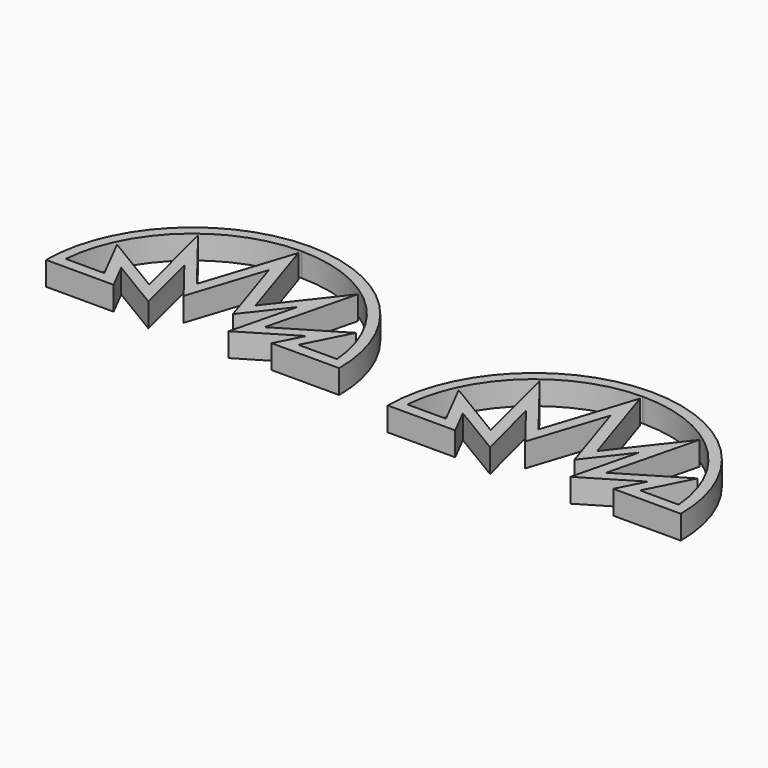
from build123d import *

# Parameters (mm, degrees)
F1_DEPTH = 25


with BuildPart() as f1:
    # F0 (on Top) → F1 (new body)
    with BuildSketch(Plane.XY):
        with BuildLine():
            ThreePointArc((-0.7439115465, 154.5982101954), (-109.581405186, 109.0553787644), (-154.6, 0))
            Line((-154.6, 0), (-83.4, 0))
            Line((-83.4, 0), (-97.5645035919, 27.7994035547))
            Line((-97.5645035919, 27.7994035547), (-42.3629294267, -5.3690484695))
            Line((-42.3629294267, -5.3690484695), (-59.5393840142, 63.5219480961))
            Line((-59.5393840142, 63.5219480961), (-25.985833609, 20.5753620245))
            Line((-25.985833609, 20.5753620245), (0, 100.5515343226))
            Line((0, 100.5515343226), (25.985833609, 20.5753620245))
            Line((25.985833609, 20.5753620245), (59.5393840142, 63.5219480961))
            Line((59.5393840142, 63.5219480961), (42.3629294267, -5.3690484695))
            Line((42.3629294267, -5.3690484695), (97.5645035919, 27.7994035547))
            Line((97.5645035919, 27.7994035547), (83.4, 0))
            Line((83.4, 0), (154.6, 0))
            ThreePointArc((154.6, 0), (109.581405186, 109.0553787644), (0.7439115465, 154.5982101954))
            ThreePointArc((0.7439115465, 154.5982101954), (0, 154.6), (-0.7439115465, 154.5982101954))
        make_face()
        with BuildLine():
            Line((-102.4, 11.5), (-143.1, 11.5))
            ThreePointArc((-143.1, 11.5), (-97.6160243872, 105.266194872), (-0.6907952313, 143.5596837624))
            ThreePointArc((-0.6907952313, 143.5596837624), (0, 143.5613457725), (0.6907952313, 143.5596837624))
            ThreePointArc((0.6907952313, 143.5596837624), (97.6160243872, 105.266194872), (143.1, 11.5))
            Line((143.1, 11.5), (102.4, 11.5))
            Line((102.4, 11.5), (126.0075059865, 57.8323392578))
            Line((126.0075059865, 57.8323392578), (60.8627911331, 18.6894455646))
            Line((60.8627911331, 18.6894455646), (84.2566384376, 112.5170422955))
            Line((84.2566384376, 112.5170422955), (30.9403546744, 44.2753110332))
            Line((30.9403546744, 44.2753110332), (0, 139.4999312489))
            Line((0, 139.4999312489), (-30.9403546744, 44.2753110332))
            Line((-30.9403546744, 44.2753110332), (-84.2566384376, 112.5170422955))
            Line((-84.2566384376, 112.5170422955), (-60.8627911331, 18.6894455646))
            Line((-60.8627911331, 18.6894455646), (-126.0075059865, 57.8323392578))
            Line((-126.0075059865, 57.8323392578), (-102.4, 11.5))
        make_face(mode=Mode.SUBTRACT)
    extrude(amount=F1_DEPTH)


with BuildPart() as f2_1:
    # F2: copy of F1
    add(f1.part.moved(Location((382, -27, 0))))


solid = Compound([f1.part, f2_1.part])
